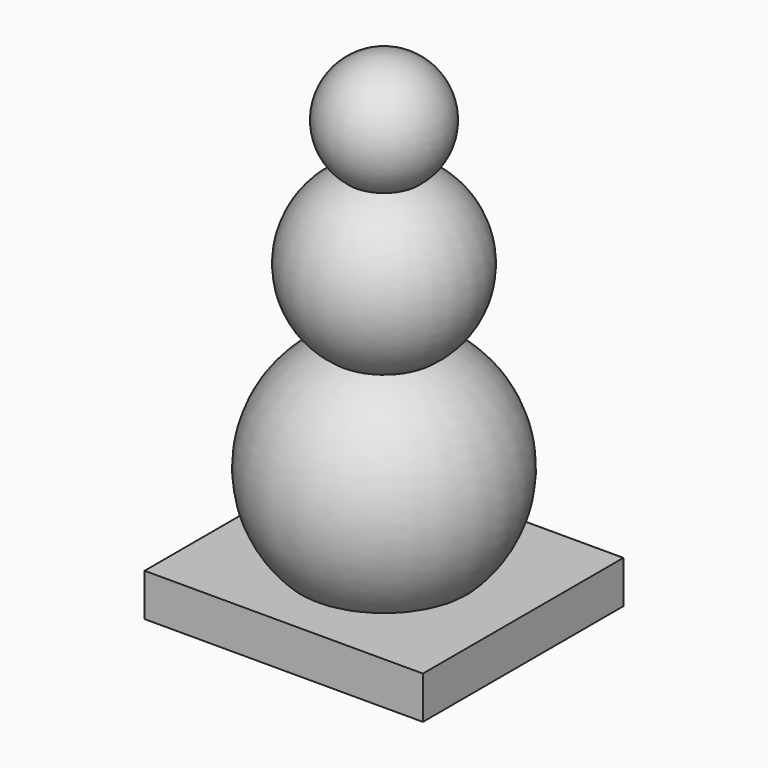
from build123d import *

# Parameters (mm, degrees)
F3_W     = 65.38418
F3_H     = 58.881882
F4_DEPTH = 10


with BuildPart() as f2:
    # F0 (on Right) → F2 (revolve)
    with BuildSketch(Plane.YZ):
        with BuildLine():
            ThreePointArc((-11.720052, 25.29383), (-27.223687, -6.000695), (0, -27.877185))
            Line((0, -27.877185), (0, 21.622989))
            ThreePointArc((0, 21.622989), (-6.140739, 22.562166), (-11.720052, 25.29383))
        make_face()
        with BuildLine():
            ThreePointArc((-8.160412, 61.022779), (-20.443768, 44.204762), (-11.720052, 25.29383))
            ThreePointArc((-11.720052, 25.29383), (-6.000695, 27.223687), (0, 27.877185))
            Line((0, 27.877185), (0, 36.3722))
            Line((0, 36.3722), (0, 58.298327))
            ThreePointArc((0, 58.298327), (-4.301598, 58.997431), (-8.160412, 61.022779))
        make_face()
        with BuildLine():
            ThreePointArc((0, 27.877185), (-6.000695, 27.223687), (-11.720052, 25.29383))
            ThreePointArc((-11.720052, 25.29383), (-6.140739, 22.562166), (0, 21.622989))
            Line((0, 21.622989), (0, 27.877185))
        make_face()
        with BuildLine():
            ThreePointArc((0, 85.465245), (-12.884355, 76.183384), (-8.160412, 61.022779))
            ThreePointArc((-8.160412, 61.022779), (-4.166803, 62.285969), (0, 62.712949))
            Line((0, 62.712949), (0, 64.630598))
            Line((0, 64.630598), (0, 85.465245))
        make_face()
        with BuildLine():
            ThreePointArc((0, 62.712949), (-4.166803, 62.285969), (-8.160412, 61.022779))
            ThreePointArc((-8.160412, 61.022779), (-4.301598, 58.997431), (0, 58.298327))
            Line((0, 58.298327), (0, 62.712949))
        make_face()
    revolve(axis=Axis((0, 0, 26.57119), (0, 0, 1)))


with BuildPart() as f4:
    # F3 (on Top) → F4 (new body)
    with BuildSketch(Plane.XY):
        Rectangle(F3_W, F3_H)
    extrude(amount=F4_DEPTH)


with BuildPart() as f4_1:
    # F5: moved
    add(f4.part.moved(Location((0, 0, -30))))


solid = Compound([f2.part, f4_1.part])
